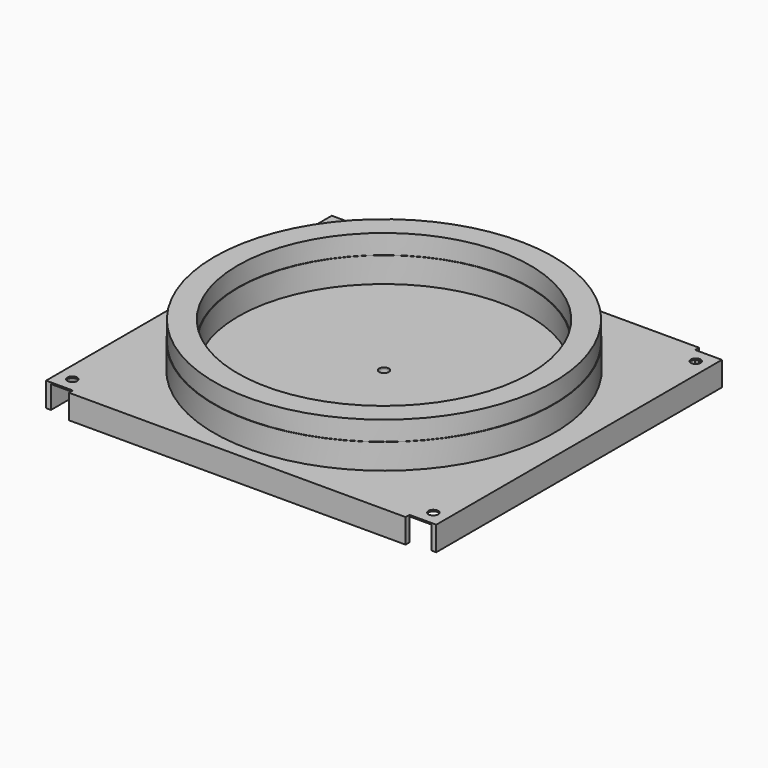
from build123d import *

# Parameters (mm, degrees)
F2_W     = 803
F2_H     = 735
F2_R     = 10
F2_R_2   = 301
F3_DEPTH = 3
F4_W     = 693
F4_H     = 10
F4_W_2   = 10
F4_H_2   = 735
F5_DEPTH = 50
F6_R     = 15
F6_R_2   = 10
F7_DEPTH = 50


with BuildPart() as f1:
    # F0 (on Front) → F1 (revolve)
    with BuildSketch(Plane.XZ):
        Polygon((-350, 3), (-300, 3), (-300, 55), (-301, 55), (-301, 95), (-349, 95), (-349, 55), (-350, 55), align=None)
        Polygon((-10, 3), (-300, 3), (-350, 3), (-350, 0), (-10, 0), align=None)
    revolve(axis=Axis((0, 0, 187.921241), (0, 0, -1)))

    # F2 (on Top) → F3 (join)
    with BuildSketch(Plane.XY):
        Rectangle(F2_W, F2_H)
        with Locations((-371.5, -337.5)):
            Circle(F2_R, mode=Mode.SUBTRACT)
        with Locations((371.5, -337.5)):
            Circle(F2_R, mode=Mode.SUBTRACT)
        Circle(F2_R_2, mode=Mode.SUBTRACT)
        with Locations((-371.5, 337.5)):
            Circle(F2_R, mode=Mode.SUBTRACT)
        with Locations((371.5, 337.5)):
            Circle(F2_R, mode=Mode.SUBTRACT)
    extrude(amount=F3_DEPTH)

    # F4 (on face) → F5 (join)
    with BuildSketch(Plane.XY.offset(3)):
        with Locations((0, -372.5)):
            Rectangle(F4_W, F4_H)
        with Locations((-396.5, 0)):
            Rectangle(F4_W_2, F4_H_2)
        with Locations((0, 372.5)):
            Rectangle(F4_W, F4_H)
        with Locations((396.5, 0)):
            Rectangle(F4_W_2, F4_H_2)
    extrude(amount=-F5_DEPTH)

    # F6 (on face) → F7 (join)
    with BuildSketch(Plane(origin=(0, 0, 0), x_dir=(1, 0, 0), z_dir=(0, 0, -1))):
        Circle(F6_R)
        Circle(F6_R_2, mode=Mode.SUBTRACT)
    extrude(amount=F7_DEPTH)


solid = f1.part
